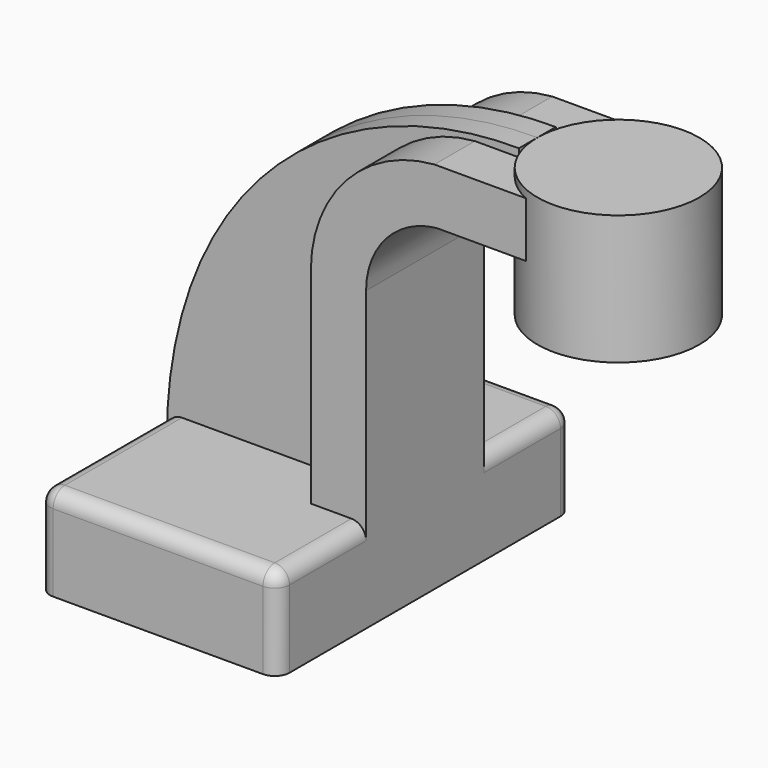
from build123d import *

# Parameters (mm, degrees)
F1_DEPTH = 63.5
F0_W     = 21.1195161537
F0_H     = 19.05
F2_DEPTH = 25.4
F3_DEPTH = 7.9375
F4_R     = 5.08


with BuildPart() as f1:
    # F0 (on Front) → F1 (new body, symmetric)
    with BuildSketch(Plane.XZ):
        Polygon((-41.275, 15.875), (-41.275, -15.875), (41.275, -15.875), (41.275, 15.875), (22.225, 15.875), align=None)
    extrude(amount=F1_DEPTH, both=True)

    # F0 (on Front) → F2 (join, symmetric)
    with BuildSketch(Plane.XZ):
        with BuildLine():
            Line((22.225, 15.875), (41.275, 15.875))
            Line((41.275, 15.875), (41.275, 86.7423946518))
            ThreePointArc((41.275, 86.7423946518), (48.2789813917, 104.9096233849), (65.6656867074, 113.6735513538))
            Line((65.6656867074, 113.6735513538), (80.041568313, 113.6735513538))
            Line((80.041568313, 113.6735513538), (80.041568313, 132.7235513538))
            Line((80.041568313, 132.7235513538), (64.8478281078, 132.7235513538))
            ThreePointArc((64.8478281078, 132.7235513538), (34.5197054828, 118.0911276707), (22.225, 86.7423946518))
            Line((22.225, 86.7423946518), (22.225, 15.875))
        make_face()
        with Locations((90.6013263899, 123.1985513538)):
            Rectangle(F0_W, F0_H)
    extrude(amount=F2_DEPTH, both=True)

    # F0 (on Front) → F3 (join, symmetric)
    with BuildSketch(Plane.XZ):
        with BuildLine():
            add(Edge.make_bspline(
                [(-41.275, 15.875), (-37.022408098, 91.7378515005), (18.0372260511, 135.9204500914), (80.041568313, 135.5005836293)],
                knots=[0, 0, 0, 0, 170.376025326, 170.376025326, 170.376025326, 170.376025326], degree=3))
            Line((-41.275, 15.875), (22.225, 15.875))
            Line((22.225, 15.875), (22.225, 86.7423946518))
            ThreePointArc((22.225, 86.7423946518), (34.5197054828, 118.0911276707), (64.8478281078, 132.7235513538))
            Line((64.8478281078, 132.7235513538), (80.041568313, 132.7235513538))
            Line((80.041568313, 132.7235513538), (80.041568313, 135.5005836293))
        make_face()
    extrude(amount=F3_DEPTH, both=True)

    # F4
    f4_edges = [f1.edges().sort_by_distance(p)[0] for p in [
        (0, -63.5, 15.875),
        (41.275, -63.5, 0),
        (41.275, -44.45, 15.875),
        (-41.275, -35.71875, 15.875),
        (-41.275, -63.5, 0),
        (-41.275, 35.71875, 15.875),
        (-41.275, 63.5, 0),
        (0, 63.5, 15.875),
        (41.275, 44.45, 15.875),
        (41.275, 63.5, 0),
    ]]
    fillet(f4_edges, radius=F4_R)


with BuildPart() as f5:
    # F0 (on Front) → F5 (revolve)
    with BuildSketch(Plane.XZ):
        Polygon((135.921568313, 135.5005836293), (107.981568313, 135.5005836293), (107.981568313, 113.1527918146), (107.981568313, 90.805), (135.921568313, 90.805), align=None)
    revolve(axis=Axis((107.981568313, 0, 113.1527918146), (0, 0, -1)))


solid = Compound([f1.part, f5.part])
